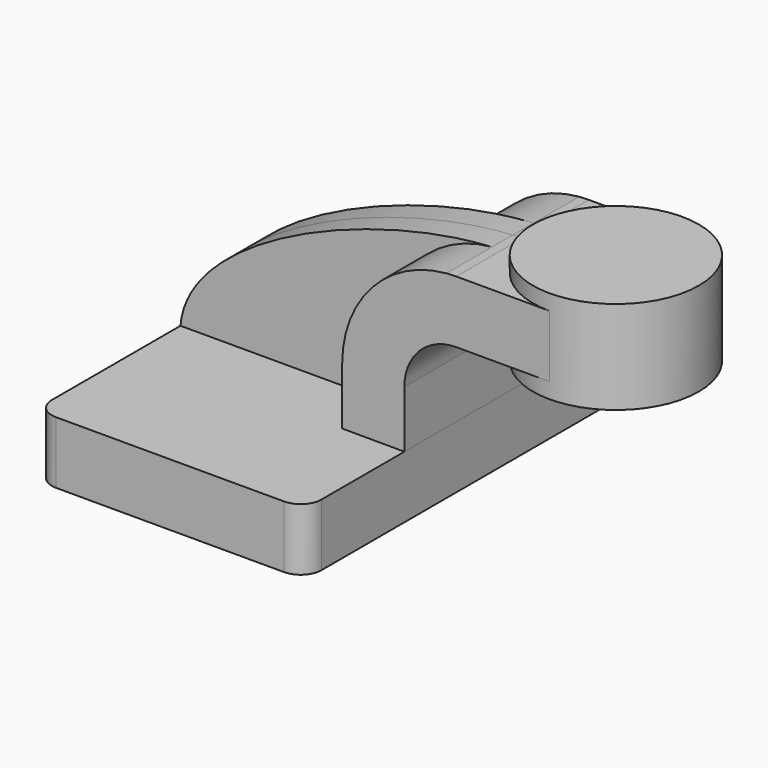
from build123d import *

# Parameters (mm, degrees)
F0_W     = 82.55
F0_H     = 19.05
F1_DEPTH = 63.5
F2_DEPTH = 25.4
F3_DEPTH = 7.9375
F0_W_2   = 25.4
F4_DEPTH = 25.4
F6_R     = 6.35


with BuildPart() as f1:
    # F0 (on Front) → F1 (new body, symmetric)
    with BuildSketch(Plane.XZ):
        with Locations((-6.222997, -1.186803)):
            Rectangle(F0_W, F0_H)
    extrude(amount=F1_DEPTH, both=True)

    # F6
    f6_edges = [f1.edges().sort_by_distance(p)[0] for p in [
        (-47.497997, -63.5, -1.186803),
        (35.052003, -63.5, -1.186803),
        (35.052003, 63.5, -1.186803),
        (-47.497997, 63.5, -1.186803),
    ]]
    fillet(f6_edges, radius=F6_R)


with BuildPart() as f2:
    # F0 (on Front) → F2 (new body, symmetric)
    with BuildSketch(Plane.XZ):
        with BuildLine():
            Line((16.002003, 8.381999), (35.052003, 8.338197))
            Line((35.052003, 8.338197), (35.052003, 25.813397))
            ThreePointArc((35.052003, 25.813397), (39.701683, 37.038717), (50.927003, 41.688397))
            Line((50.927003, 41.688397), (54.102003, 41.688397))
            Line((54.102003, 41.688397), (54.102003, 60.738397))
            Line((54.102003, 60.738397), (50.927003, 60.738397))
            add(Edge.make_bspline(
                [(47.925812, 60.609208), (48.939961, 60.66769), (49.940829, 60.710865), (50.927003, 60.738397)],
                knots=[108.569455, 108.569455, 108.569455, 108.569455, 111.504536, 111.504536, 111.504536, 111.504536], degree=3))
            ThreePointArc((47.925812, 60.609208), (25.192083, 49.424189), (16.002003, 25.813397))
            Line((16.002003, 25.813397), (16.002003, 8.381999))
        make_face()
    extrude(amount=F2_DEPTH, both=True)

    # F0 (on Front) → F4 (join, symmetric)
    with BuildSketch(Plane.XZ):
        with Locations((66.802003, 51.213397)):
            Rectangle(F0_W_2, F0_H)
    extrude(amount=F4_DEPTH, both=True)

    # F0 (on Front) → F5 (revolve)
    with BuildSketch(Plane.XZ):
        Polygon((79.502003, 65.488197), (79.502003, 60.738397), (79.502003, 41.688397), (79.502003, 36.913197), (104.902003, 36.913197), (104.902003, 65.488197), align=None)
    revolve(axis=Axis((79.502003, 0, 39.300797), (0, 0, 1)))


with BuildPart() as f3:
    # F0 (on Front) → F3 (new body, symmetric)
    with BuildSketch(Plane.XZ):
        with BuildLine():
            add(Edge.make_bspline(
                [(-47.497997, 8.338197), (-45.27217, 35.338723), (10.412176, 58.445943), (47.925812, 60.609208)],
                knots=[0, 0, 0, 0, 108.569455, 108.569455, 108.569455, 108.569455], degree=3))
            Line((-47.497997, 8.338197), (35.052003, 8.338197))
            Line((35.052003, 8.338197), (16.002003, 8.381999))
            Line((16.002003, 8.381999), (16.002003, 25.813397))
            ThreePointArc((16.002003, 25.813397), (25.192083, 49.424189), (47.925812, 60.609208))
        make_face()
    extrude(amount=F3_DEPTH, both=True)


solid = Compound([f1.part, f2.part, f3.part])
